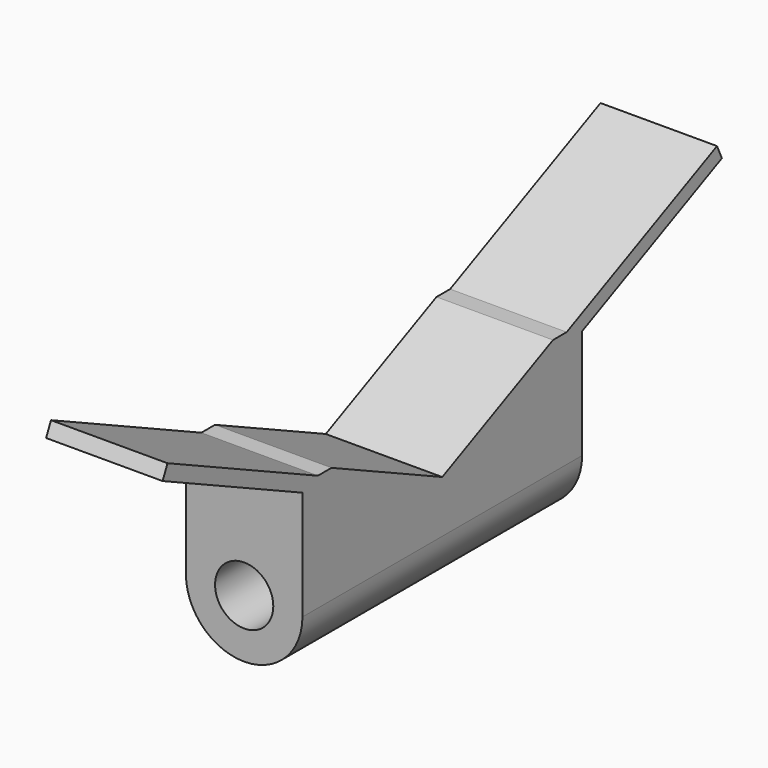
from build123d import *

# Parameters (mm, degrees)
F0_R          = 6.35
F1_DEPTH      = 38.1
F3_DEPTH      = 22.9515263319
F3_DEPTH_BACK = 2.4484736681
F5_DEPTH      = 127


with BuildPart() as f1:
    # F0 (on Front) → F1 (new body, symmetric)
    with BuildSketch(Plane.XZ):
        with BuildLine():
            Line((22.9515263319, 23.0404102315), (-2.4484736681, 23.0404102315))
            Line((-2.4484736681, 23.0404102315), (-2.4484736681, -2.3595897685))
            ThreePointArc((-2.4484736681, -2.3595897685), (1.2712702108, -11.3398458895), (10.2515263319, -15.0595897685))
            ThreePointArc((10.2515263319, -15.0595897685), (19.231782453, -11.3398458895), (22.9515263319, -2.3595897685))
            Line((22.9515263319, -2.3595897685), (22.9515263319, 23.0404102315))
        make_face()
        with Locations((10.2515263319, -2.3595897685)):
            Circle(F0_R, mode=Mode.SUBTRACT)
    extrude(amount=F1_DEPTH, both=True)

    # F2 (on Right) → F3 (join, two sides)
    with BuildSketch(Plane.YZ) as f3_sk:
        Polygon((74.8611375716, 42.0904102315), (28.7987175975, 20.6686113778), (30.1375800259, 17.7897101294), (76.2, 39.2115089832), align=None)
        Polygon((-28.7987175975, 20.6686113778), (-74.8611375716, 42.0904102315), (-76.2, 39.2115089832), (-30.1375800259, 17.7897101294), align=None)
    extrude(amount=F3_DEPTH)
    extrude(f3_sk.sketch, amount=-F3_DEPTH_BACK)

    # F4 (on Right) → F5 (cut, symmetric)
    with BuildSketch(Plane.YZ):
        Polygon((0, 9.0103000402), (37.7937594108, 26.5866738495), (-37.5799492613, 26.4872392558), align=None)
    extrude(amount=F5_DEPTH, both=True, mode=Mode.SUBTRACT)


solid = f1.part
